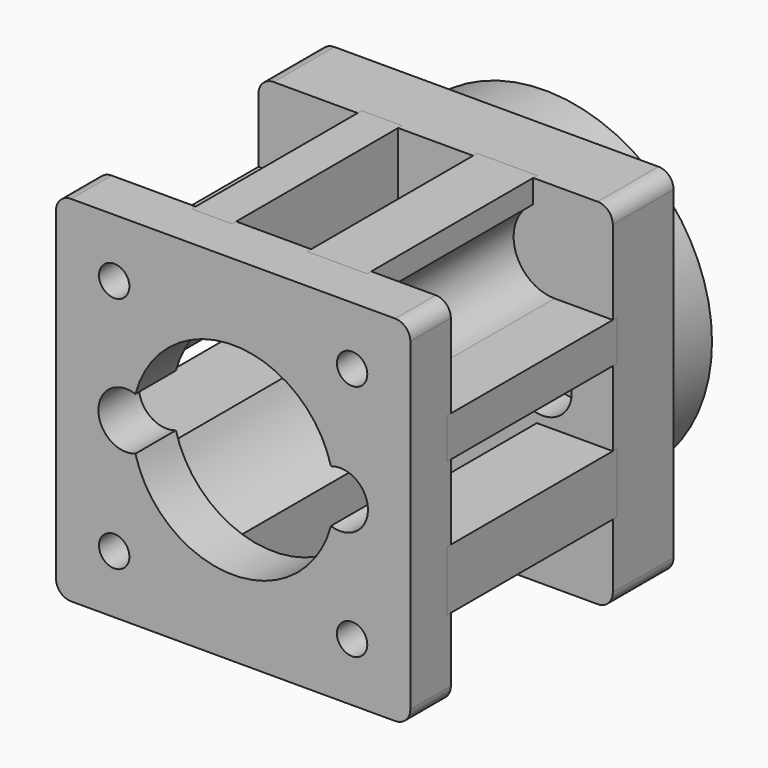
from build123d import *

# Parameters (mm, degrees)
F0_R      = 4.5
F0_R_2    = 3.5
F1_DEPTH  = 4
F2_R      = 33
F2_R_2    = 30.25
F3_DEPTH  = 12
F4_SIZE   = 1.5
F5_W      = 70
F5_H      = 70
F5_R      = 3.5
F5_R_2    = 14
F6_DEPTH  = 15
F8_R      = 5.75
F9_DEPTH  = 7.5
F11_W     = 70
F11_H     = 70
F11_R     = 3
F12_DEPTH = 10
F15_DEPTH = 42
F16_R     = 3
F17_R     = 3


with BuildPart() as f1:
    # F0 (on Front) → F1 (new body)
    with BuildSketch(Plane.XZ):
        with Locations((-21.125, 0)):
            Circle(F0_R)
        with Locations((-21.125, 0)):
            Circle(F0_R_2, mode=Mode.SUBTRACT)
        with Locations((21.125, 0)):
            Circle(F0_R)
        with Locations((21.125, 0)):
            Circle(F0_R_2, mode=Mode.SUBTRACT)
    extrude(amount=-F1_DEPTH)


with BuildPart() as f3:
    # F2 (on Front) → F3 (new body)
    with BuildSketch(Plane.XZ):
        Circle(F2_R)
        Circle(F2_R_2, mode=Mode.SUBTRACT)
    extrude(amount=-F3_DEPTH)

    # F4
    f4_edges = [f3.edges().sort_by_distance(p)[0] for p in [
        (-30.25, 12, 0),
    ]]
    chamfer(f4_edges, length=F4_SIZE)


with BuildPart() as f6:
    # F5 (on Front) → F6 (new body)
    with BuildSketch(Plane.XZ):
        Rectangle(F5_W, F5_H)
        with Locations((-21.125, 0)):
            Circle(F5_R, mode=Mode.SUBTRACT)
        Circle(F5_R_2, mode=Mode.SUBTRACT)
        with Locations((21.125, 0)):
            Circle(F5_R, mode=Mode.SUBTRACT)
    extrude(amount=F6_DEPTH)

    # F8 (on offset) → F9 (cut)
    with BuildSketch(Plane.XZ.offset(15)):
        with Locations((-21.125, 0)):
            Circle(F8_R)
        with Locations((21.125, 0)):
            Circle(F8_R)
    extrude(amount=-F9_DEPTH, mode=Mode.SUBTRACT)

    # F17
    f17_edges = [f6.edges().sort_by_distance(p)[0] for p in [
        (35, -7.5, -35),
        (35, -7.5, 35),
        (-35, -7.5, 35),
        (-35, -7.5, -35),
    ]]
    fillet(f17_edges, radius=F17_R)


with BuildPart() as f12:
    # F11 (on offset) → F12 (new body)
    with BuildSketch(Plane.XZ.offset(65)):
        Rectangle(F11_W, F11_H)
        with Locations((-23.5, -23.5)):
            Circle(F11_R, mode=Mode.SUBTRACT)
        with Locations((23.5, -23.5)):
            Circle(F11_R, mode=Mode.SUBTRACT)
        with Locations((-23.5, 23.5)):
            Circle(F11_R, mode=Mode.SUBTRACT)
        with BuildLine():
            ThreePointArc((-19.313979, 5.193285), (0, 20), (19.313979, 5.193285))
            ThreePointArc((19.313979, 5.193285), (24.310073, 4.483894), (26.625, 0))
            ThreePointArc((26.625, 0), (24.310073, -4.483894), (19.313979, -5.193285))
            ThreePointArc((19.313979, -5.193285), (0, -20), (-19.313979, -5.193285))
            ThreePointArc((-19.313979, -5.193285), (-26.625, 0), (-19.313979, 5.193285))
        make_face(mode=Mode.SUBTRACT)
        with Locations((23.5, 23.5)):
            Circle(F11_R, mode=Mode.SUBTRACT)
    extrude(amount=-F12_DEPTH)

    # F16
    f16_edges = [f12.edges().sort_by_distance(p)[0] for p in [
        (-35, -60, 35),
        (35, -60, 35),
        (35, -60, -35),
        (-35, -60, -35),
    ]]
    fillet(f16_edges, radius=F16_R)


with BuildPart() as f15:
    # F14 (on offset) → F15 (new body)
    with BuildSketch(Plane.XZ.offset(14)):
        with BuildLine():
            Line((-15.405996, 35), (-15.405996, 23.5))
            ThreePointArc((-15.405996, 23.5), (-21.310088, 15.707876), (-30.409, 19.283529))
            Line((-30.409, 19.283529), (-35, 19.283529))
            Line((-35, 19.283529), (-35.000031, 7.406))
            Line((-35.000031, 7.406), (-20.000031, 7.406))
            ThreePointArc((-20.000031, 7.406), (-15.069489, 15.06948), (-7.405996, 20))
            Line((-7.405996, 20), (-7.405996, 35))
            Line((-7.405996, 35), (-15.405996, 35))
        make_face()
        with BuildLine():
            Line((-20, -7.405996), (-35, -7.405996))
            Line((-35, -7.405996), (-35, -15.405996))
            Line((-35, -15.405996), (-23.5, -15.405996))
            ThreePointArc((-23.5, -15.405996), (-15.707876, -21.310088), (-19.283529, -30.409))
            Line((-19.283529, -30.409), (-19.283529, -35))
            Line((-19.283529, -35), (-7.406, -35.000031))
            Line((-7.406, -35.000031), (-7.406, -20.000031))
            ThreePointArc((-7.406, -20.000031), (-15.06948, -15.069489), (-20, -7.405996))
        make_face()
        with BuildLine():
            Line((7.405996, -20), (7.405996, -35))
            Line((7.405996, -35), (15.405996, -35))
            Line((15.405996, -35), (15.405996, -23.5))
            ThreePointArc((15.405996, -23.5), (21.310088, -15.707876), (30.409, -19.283529))
            Line((30.409, -19.283529), (35, -19.283529))
            Line((35, -19.283529), (35.000031, -7.406))
            Line((35.000031, -7.406), (20.000031, -7.406))
            ThreePointArc((20.000031, -7.406), (15.069489, -15.06948), (7.405996, -20))
        make_face()
        with BuildLine():
            Line((20, 7.405996), (35, 7.405996))
            Line((35, 7.405996), (35, 15.405996))
            Line((35, 15.405996), (23.5, 15.405996))
            ThreePointArc((23.5, 15.405996), (15.707876, 21.310088), (19.283529, 30.409))
            Line((19.283529, 30.409), (19.283529, 35))
            Line((19.283529, 35), (7.406, 35.000031))
            Line((7.406, 35.000031), (7.406, 20.000031))
            ThreePointArc((7.406, 20.000031), (15.06948, 15.069489), (20, 7.405996))
        make_face()
    extrude(amount=F15_DEPTH)


solid = Compound([f1.part, f3.part, f6.part, f12.part, f15.part])
